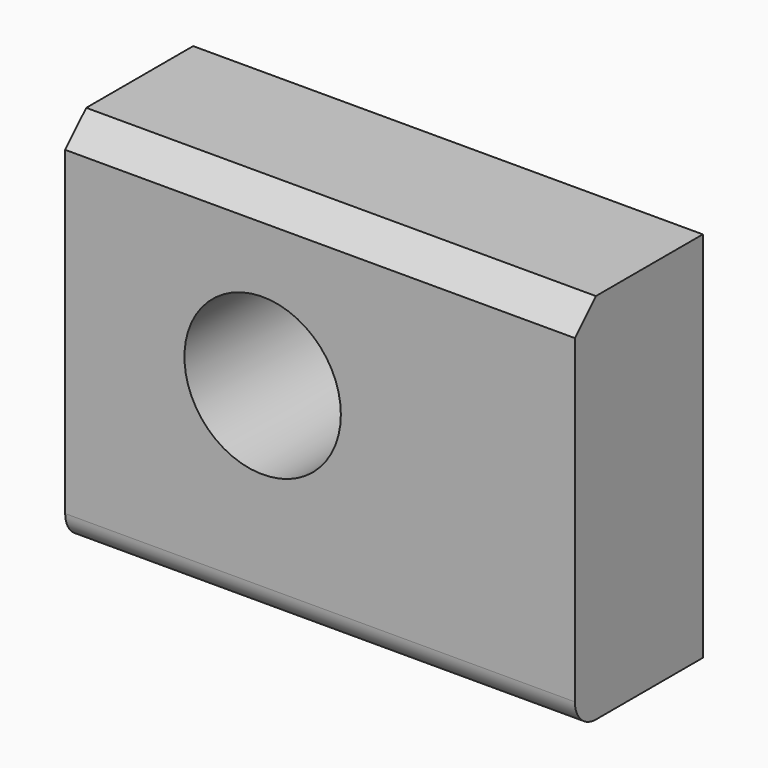
from build123d import *

# Parameters (mm, degrees)
F0_W     = 98.442565
F0_H     = 72.012099
F0_R     = 15.107645
F1_DEPTH = 30.8957
F2_R     = 5.08
F3_SIZE  = 5.08


with BuildPart() as f1:
    # F0 (on Front) → F1 (new body)
    with BuildSketch(Plane.XZ):
        with Locations((-16.359476, 6.18827)):
            Rectangle(F0_W, F0_H)
        with Locations((-27.442385, 9.414453)):
            Circle(F0_R, mode=Mode.SUBTRACT)
    extrude(amount=F1_DEPTH)

    # F2
    f2_edges = [f1.edges().sort_by_distance(p)[0] for p in [
        (-16.359476, -30.8957, -29.817779),
    ]]
    fillet(f2_edges, radius=F2_R)

    # F3
    f3_edges = [f1.edges().sort_by_distance(p)[0] for p in [
        (-16.359476, -30.8957, 42.19432),
    ]]
    chamfer(f3_edges, length=F3_SIZE)


solid = f1.part
